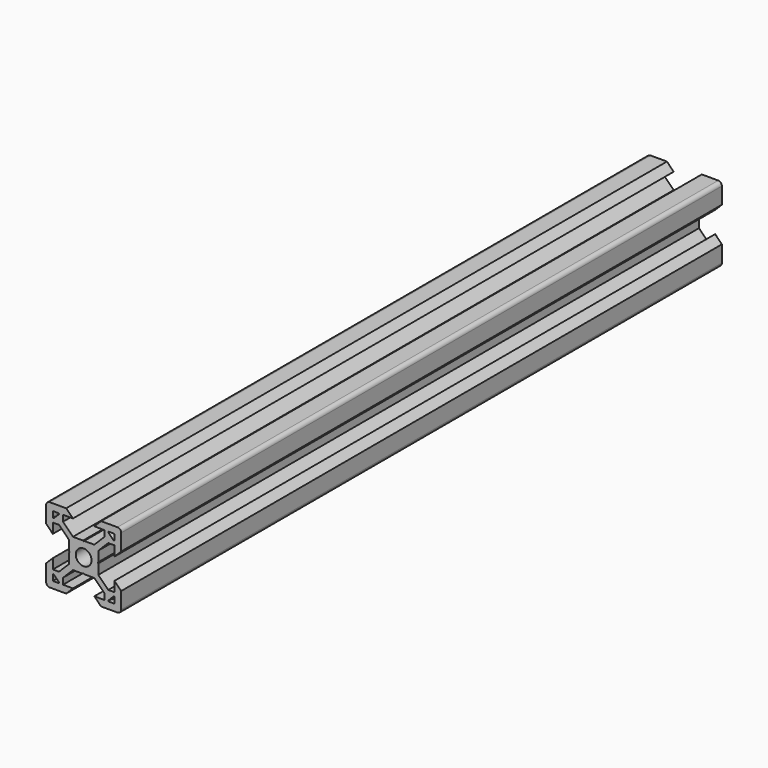
from build123d import *

# Parameters (mm, degrees)
F0_R     = 2.1
F1_DEPTH = 200


with BuildPart() as f1:
    # F0 (on Front) → F1 (new body)
    with BuildSketch(Plane.XZ):
        with BuildLine():
            Line((-4.64, 10), (-9, 10))
            ThreePointArc((-9, 10), (-9.707107, 9.707107), (-10, 9))
            Line((-10, 9), (-10, 4.64))
            Line((-10, 4.64), (-8.2, 2.84))
            Line((-8.2, 2.84), (-8.2, 5.49934))
            Line((-8.2, 5.49934), (-6.56, 5.49934))
            Line((-6.56, 5.49934), (-3.90066, 2.84))
            Line((-3.90066, 2.84), (-3.90066, 0.15))
            Line((-3.90066, 0.15), (-3.75066, 0))
            Line((-3.75066, 0), (-3.90066, -0.15))
            Line((-3.90066, -0.15), (-3.90066, -2.84))
            Line((-3.90066, -2.84), (-6.56, -5.49934))
            Line((-6.56, -5.49934), (-8.2, -5.49934))
            Line((-8.2, -5.49934), (-8.2, -2.84))
            Line((-8.2, -2.84), (-10, -4.64))
            Line((-10, -4.64), (-10, -9))
            ThreePointArc((-10, -9), (-9.707107, -9.707107), (-9, -10))
            Line((-9, -10), (-4.64, -10))
            Line((-4.64, -10), (-2.84, -8.2))
            Line((-2.84, -8.2), (-5.49934, -8.2))
            Line((-5.49934, -8.2), (-5.49934, -6.56))
            Line((-5.49934, -6.56), (-2.84, -3.90066))
            Line((-2.84, -3.90066), (-0.15, -3.90066))
            Line((-0.15, -3.90066), (0, -3.75066))
            Line((0, -3.75066), (0.15, -3.90066))
            Line((0.15, -3.90066), (2.84, -3.90066))
            Line((2.84, -3.90066), (5.49934, -6.56))
            Line((5.49934, -6.56), (5.49934, -8.2))
            Line((5.49934, -8.2), (2.84, -8.2))
            Line((2.84, -8.2), (4.64, -10))
            Line((4.64, -10), (9, -10))
            ThreePointArc((9, -10), (9.707107, -9.707107), (10, -9))
            Line((10, -9), (10, -4.64))
            Line((10, -4.64), (8.2, -2.84))
            Line((8.2, -2.84), (8.2, -5.49934))
            Line((8.2, -5.49934), (6.56, -5.49934))
            Line((6.56, -5.49934), (3.90066, -2.84))
            Line((3.90066, -2.84), (3.90066, -0.15))
            Line((3.90066, -0.15), (3.75066, 0))
            Line((3.75066, 0), (3.90066, 0.15))
            Line((3.90066, 0.15), (3.90066, 2.84))
            Line((3.90066, 2.84), (6.56, 5.49934))
            Line((6.56, 5.49934), (8.2, 5.49934))
            Line((8.2, 5.49934), (8.2, 2.84))
            Line((8.2, 2.84), (10, 4.64))
            Line((10, 4.64), (10, 9))
            ThreePointArc((10, 9), (9.707107, 9.707107), (9, 10))
            Line((9, 10), (4.64, 10))
            Line((4.64, 10), (2.84, 8.2))
            Line((2.84, 8.2), (5.49934, 8.2))
            Line((5.49934, 8.2), (5.49934, 6.56))
            Line((5.49934, 6.56), (2.84, 3.90066))
            Line((2.84, 3.90066), (0.15, 3.90066))
            Line((0.15, 3.90066), (0, 3.75066))
            Line((0, 3.75066), (-0.15, 3.90066))
            Line((-0.15, 3.90066), (-2.84, 3.90066))
            Line((-2.84, 3.90066), (-5.49934, 6.56))
            Line((-5.49934, 6.56), (-5.49934, 8.2))
            Line((-5.49934, 8.2), (-2.84, 8.2))
            Line((-2.84, 8.2), (-4.64, 10))
        make_face()
        with BuildLine():
            Line((-8.2, -8.2), (-8.2, -6.71))
            ThreePointArc((-8.2, -6.71), (-8.156066, -6.603934), (-8.05, -6.56))
            Line((-8.05, -6.56), (-7.98749, -6.56))
            Line((-7.98749, -6.56), (-6.603934, -7.943556))
            ThreePointArc((-6.603934, -7.943556), (-6.571418, -7.992219), (-6.56, -8.049622))
            Line((-6.56, -8.049622), (-6.56, -8.05))
            ThreePointArc((-6.56, -8.05), (-6.603934, -8.156066), (-6.71, -8.2))
            Line((-6.71, -8.2), (-8.2, -8.2))
        make_face(mode=Mode.SUBTRACT)
        with BuildLine():
            ThreePointArc((6.71, -8.2), (6.603934, -8.156066), (6.56, -8.05))
            Line((6.56, -8.05), (6.56, -7.98749))
            Line((6.56, -7.98749), (7.943556, -6.603934))
            ThreePointArc((7.943556, -6.603934), (7.992219, -6.571418), (8.049622, -6.56))
            Line((8.049622, -6.56), (8.2, -6.56))
            Line((8.2, -6.56), (8.2, -8.05))
            ThreePointArc((8.2, -8.05), (8.156066, -8.156066), (8.05, -8.2))
            Line((8.05, -8.2), (6.71, -8.2))
        make_face(mode=Mode.SUBTRACT)
        with BuildLine():
            ThreePointArc((-8.2, 8.05), (-8.156066, 8.156066), (-8.05, 8.2))
            Line((-8.05, 8.2), (-6.71, 8.2))
            ThreePointArc((-6.71, 8.2), (-6.603934, 8.156066), (-6.56, 8.05))
            Line((-6.56, 8.05), (-6.56, 8.049622))
            ThreePointArc((-6.56, 8.049622), (-6.571418, 7.992219), (-6.603934, 7.943556))
            Line((-6.603934, 7.943556), (-7.943556, 6.603934))
            ThreePointArc((-7.943556, 6.603934), (-7.992219, 6.571418), (-8.049622, 6.56))
            Line((-8.049622, 6.56), (-8.05, 6.56))
            ThreePointArc((-8.05, 6.56), (-8.156066, 6.603934), (-8.2, 6.71))
            Line((-8.2, 6.71), (-8.2, 8.05))
        make_face(mode=Mode.SUBTRACT)
        Circle(F0_R, mode=Mode.SUBTRACT)
        with BuildLine():
            Line((8.2, 8.05), (8.2, 6.71))
            ThreePointArc((8.2, 6.71), (8.156066, 6.603934), (8.05, 6.56))
            Line((8.05, 6.56), (7.98749, 6.56))
            Line((7.98749, 6.56), (6.56, 7.98749))
            Line((6.56, 7.98749), (6.56, 8.05))
            ThreePointArc((6.56, 8.05), (6.603934, 8.156066), (6.71, 8.2))
            Line((6.71, 8.2), (8.05, 8.2))
            ThreePointArc((8.05, 8.2), (8.156066, 8.156066), (8.2, 8.05))
        make_face(mode=Mode.SUBTRACT)
    extrude(amount=F1_DEPTH)


solid = f1.part
